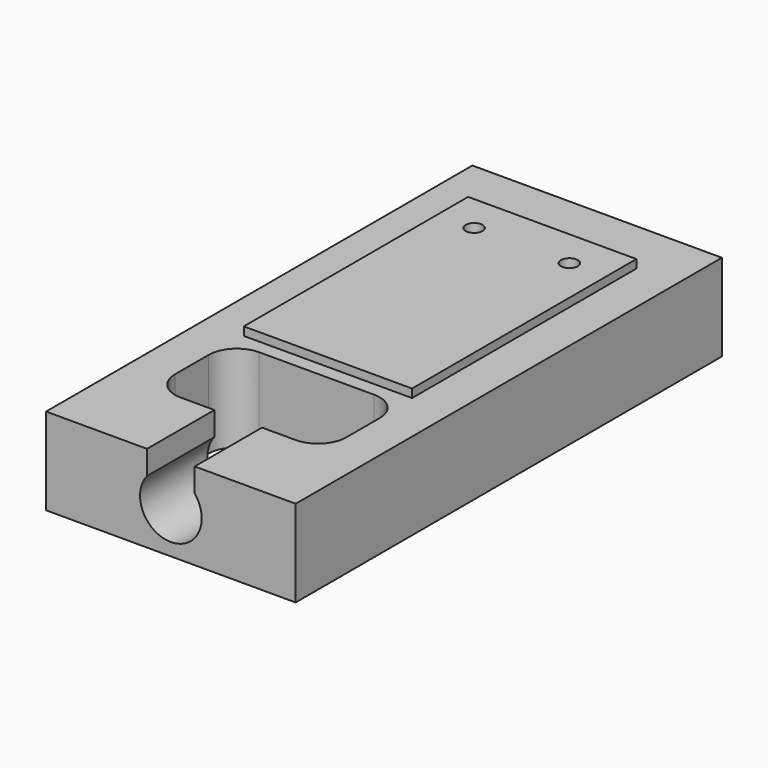
from build123d import *

# Parameters (mm, degrees)
F4_DEPTH  = 8.9
F6_W      = 6
F6_H      = 10
F7_DEPTH  = 3.7
F8_R      = 0.3
F9_DEPTH  = 3.701
F11_DEPTH = 3


with BuildPart() as f4:
    # F3 (on Right) → F4 (new body)
    with BuildSketch(Plane.YZ):
        Polygon((0, 1.55), (0, 0), (0, -1.55), (19, -1.55), (19, 0), (19, 1.55), align=None)
    extrude(amount=F4_DEPTH)

    # F6 (on offset) → F7 (join)
    with BuildSketch(Plane.XY.offset(1.85)):
        with Locations((4.45, 12)):
            Rectangle(F6_W, F6_H)
    extrude(amount=-F7_DEPTH)

    # F8 (on offset) → F9 (cut, through all)
    with BuildSketch(Plane.XY.offset(1.85)):
        with BuildLine():
            ThreePointArc((1.4, 4), (1.6928932188, 3.2928932188), (2.4, 3))
            Line((2.4, 3), (6.5, 3))
            ThreePointArc((6.5, 3), (7.2071067812, 3.2928932188), (7.5, 4))
            Line((7.5, 4), (7.5, 5.5))
            ThreePointArc((7.5, 5.5), (7.2071067812, 6.2071067812), (6.5, 6.5))
            Line((6.5, 6.5), (2.4, 6.5))
            ThreePointArc((2.4, 6.5), (1.6928932188, 6.2071067812), (1.4, 5.5))
            Line((1.4, 5.5), (1.4, 4))
        make_face()
        with Locations((2.75, 15.64)):
            Circle(F8_R)
        with Locations((6.15, 15.64)):
            Circle(F8_R)
    extrude(amount=-F9_DEPTH, mode=Mode.SUBTRACT)

    # F10 (on face) → F11 (cut, through all)
    with BuildSketch(Plane.XZ):
        with BuildLine():
            Line((5.3, 1.55), (3.6, 1.55))
            Line((3.6, 1.55), (3.6, 0.6982120022))
            ThreePointArc((3.6, 0.6982120022), (4.45, -1.1), (5.3, 0.6982120022))
            Line((5.3, 0.6982120022), (5.3, 1.55))
        make_face()
    extrude(amount=-F11_DEPTH, mode=Mode.SUBTRACT)


solid = f4.part
